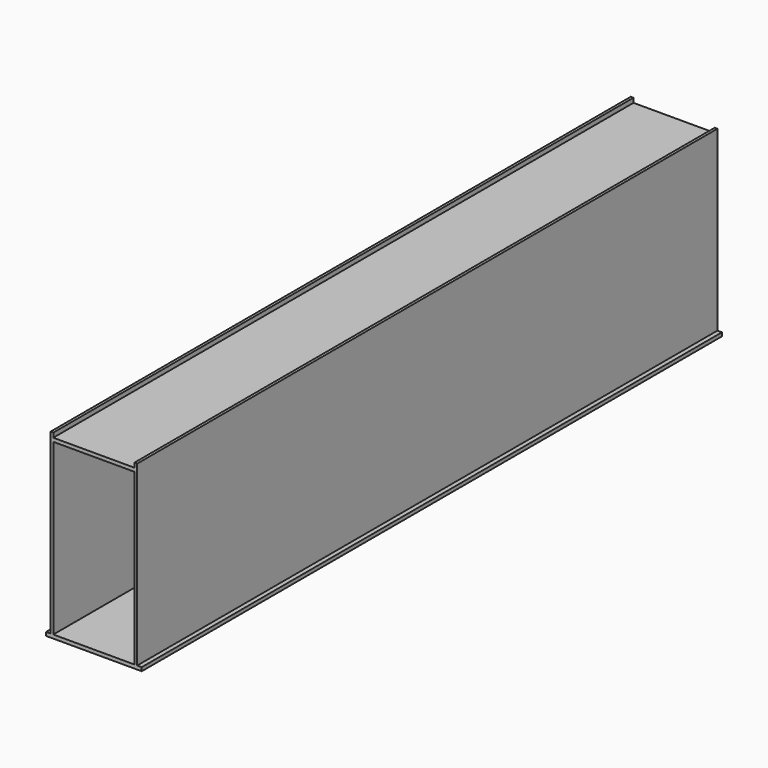
from build123d import *

# Parameters (mm, degrees)
F0_W     = 1143
F0_H     = 50.8
F1_DEPTH = 10207.625


with BuildPart() as f1:
    # F0 (on Front) → F1 (new body)
    with BuildSketch(Plane.XZ):
        Polygon((-673.1, -25.4), (673.1, -25.4), (673.1, 25.4), (609.6, 25.4), (571.5, 25.4), (-571.5, 25.4), (-609.6, 25.4), (-673.1, 25.4), align=None)
        Polygon((571.5, 25.4), (609.6, 25.4), (609.6, 2527.3), (571.5, 2527.3), (571.5, 2463.8), (571.5, 2413), align=None)
        Polygon((-609.6, 2527.3), (-609.6, 25.4), (-571.5, 25.4), (-571.5, 2413), (-571.5, 2463.8), (-571.5, 2527.3), align=None)
        with Locations((0, 2438.4)):
            Rectangle(F0_W, F0_H)
    extrude(amount=F1_DEPTH)


solid = f1.part
